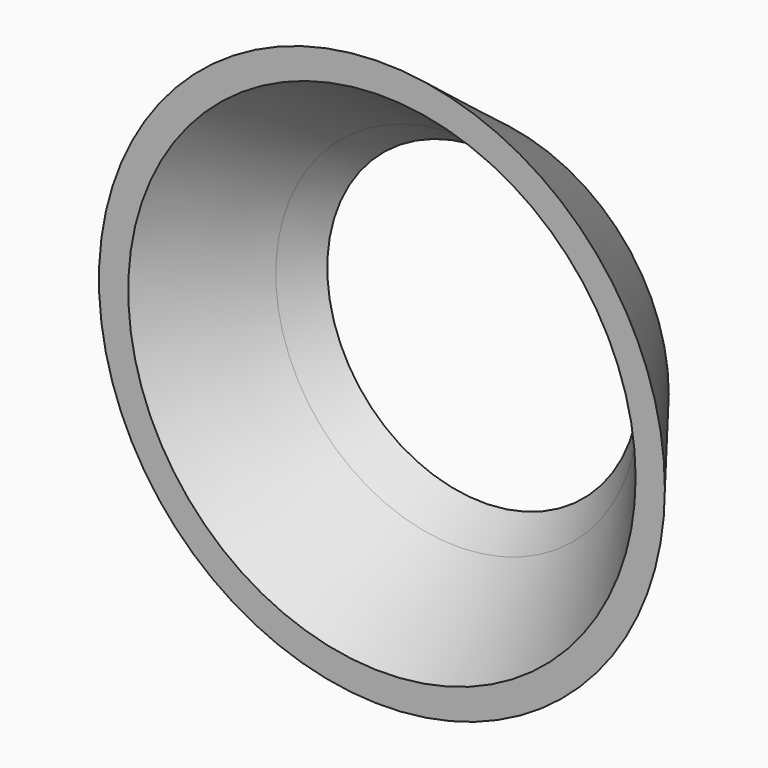
from build123d import *


with BuildPart() as part:
    # Sketch → Revolution (revolve)
    with BuildSketch(Plane.XY):
        Polygon((26, 0.002432), (29, 0.002432), (19, 13), (16, 13), (18.586534, 9.638134), align=None)
    revolve(axis=Axis((0, 0, 0), (0, 1, 0)))


solid = part.part
